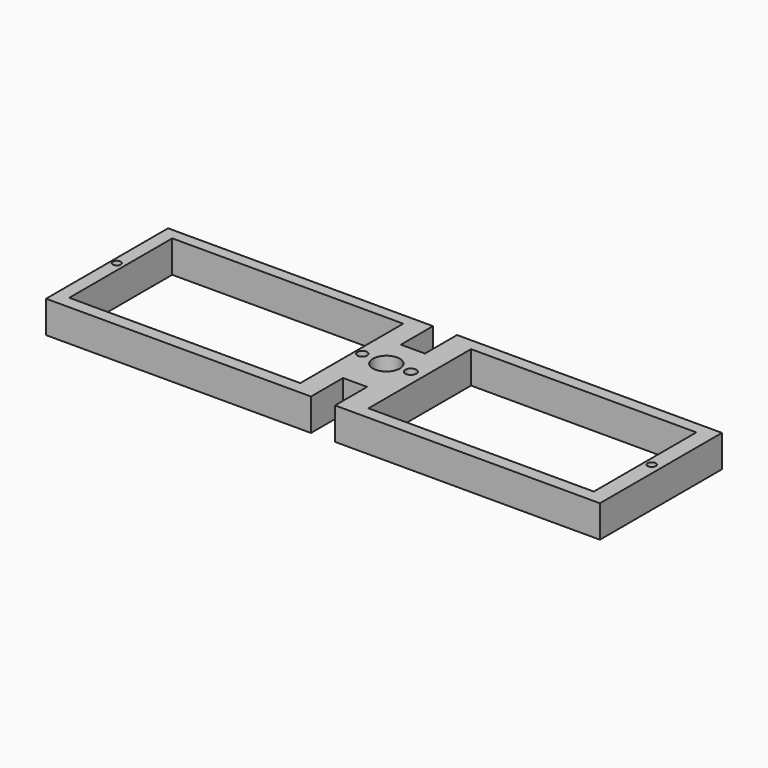
from build123d import *

# Parameters (mm, degrees)
F0_R     = 1.261552
F0_R_2   = 4.245744
F0_R_3   = 1.553218
F0_R_4   = 1.732821
F0_R_5   = 1.272628
F1_DEPTH = 10.16


with BuildPart() as f1:
    # F0 (on Top) → F1 (new body)
    with BuildSketch(Plane.XY):
        Polygon((14.314912, 31.226924), (-69.505088, 31.226924), (-69.505088, -17.033076), (14.314912, -17.033076), (14.314912, -4.333076), (21.934912, -4.333076), (21.934912, -17.033076), (105.754912, -17.033076), (105.754912, 31.226924), (21.934912, 31.226924), (21.934912, 18.526924), (14.314912, 18.526924), align=None)
        with Locations((-67.760587, 8.763451)):
            Circle(F0_R, mode=Mode.SUBTRACT)
        Polygon((-65.335467, -13.070364), (-65.335467, 27.654151), (7.767193, 27.654151), (7.767193, 14.534191), (7.767193, 0), (7.767193, -13.070364), align=None, mode=Mode.SUBTRACT)
        with Locations((17.859792, 8.356431)):
            Circle(F0_R_2, mode=Mode.SUBTRACT)
        with Locations((9.922925, 8.763451)):
            Circle(F0_R_3, mode=Mode.SUBTRACT)
        with Locations((25.287885, 8.763451)):
            Circle(F0_R_4, mode=Mode.SUBTRACT)
        Polygon((29.352626, -13.070364), (29.352626, 0), (29.352626, 14.534191), (29.352626, 27.485449), (100.664638, 27.485449), (100.664638, -13.070364), align=None, mode=Mode.SUBTRACT)
        with Locations((102.851428, 7.096924)):
            Circle(F0_R_5, mode=Mode.SUBTRACT)
    extrude(amount=F1_DEPTH)


solid = f1.part
